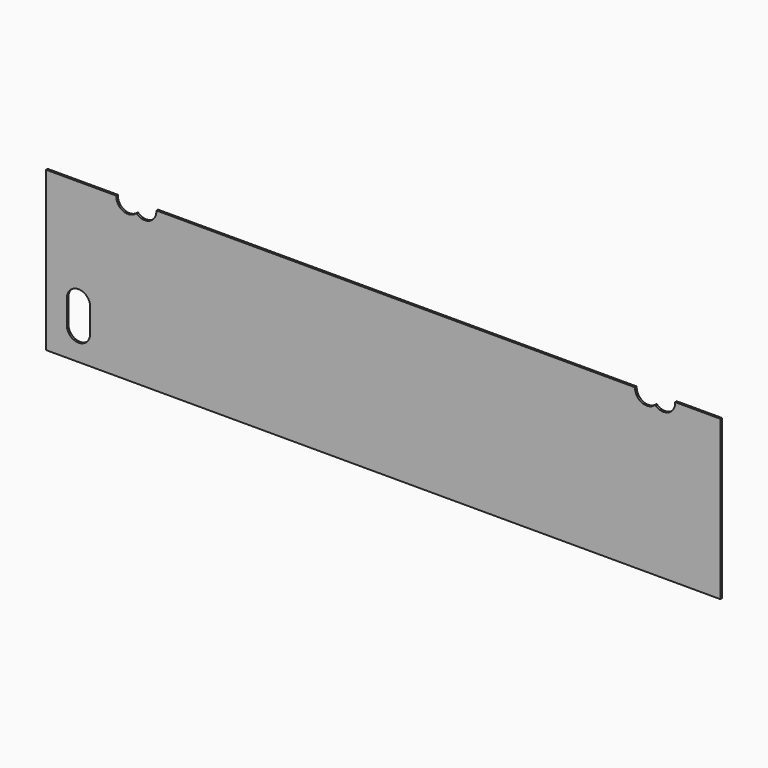
from build123d import *

# Parameters (mm, degrees)
F1_DEPTH = 6


with BuildPart() as f1:
    # F0 (on Front) → F1 (new body)
    with BuildSketch(Plane.XZ):
        with BuildLine():
            Line((0, 475), (0, 0))
            Line((0, 0), (2017, 0))
            Line((2017, 0), (2017, 475))
            Line((2017, 475), (1881.94281, 475))
            ThreePointArc((1881.94281, 475), (1861.14955, 440.987655), (1822, 448.505103))
            ThreePointArc((1822, 448.505103), (1782.85045, 440.987655), (1762.05719, 475))
            Line((1762.05719, 475), (329.94281, 475))
            ThreePointArc((329.94281, 475), (309.14955, 440.987655), (270, 448.505103))
            ThreePointArc((270, 448.505103), (230.85045, 440.987655), (210.05719, 475))
            Line((210.05719, 475), (0, 475))
        make_face()
        with BuildLine():
            ThreePointArc((62, 157), (97, 192), (132, 157))
            Line((132, 157), (132, 86))
            ThreePointArc((132, 86), (97, 51), (62, 86))
            Line((62, 86), (62, 157))
        make_face(mode=Mode.SUBTRACT)
    extrude(amount=F1_DEPTH)


solid = f1.part
